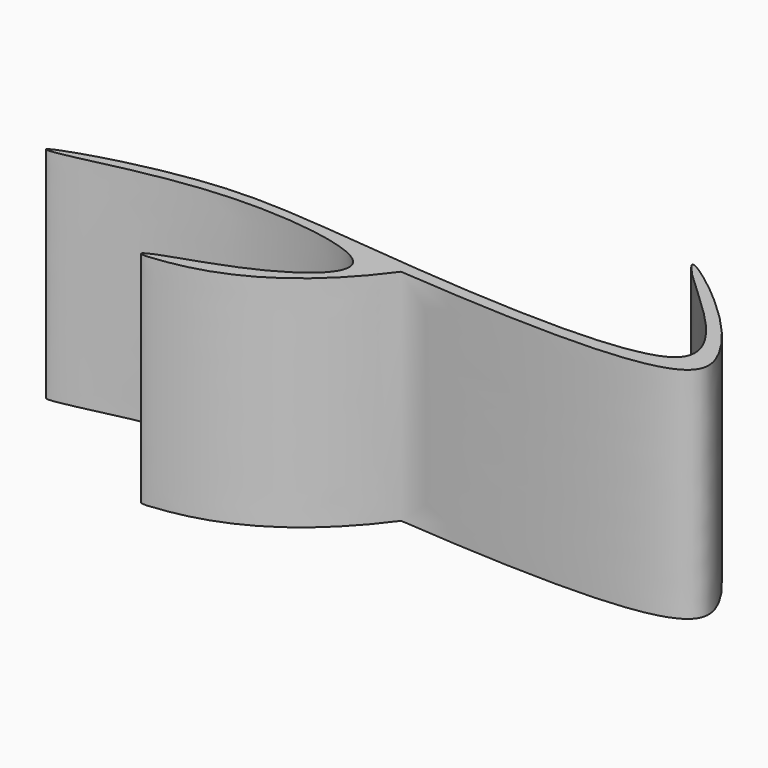
from build123d import *

# Parameters (mm, degrees)
EXTRUDE_DEPTH = 62


with BuildPart() as part:
    # Sketch → Extrude (new body)
    with BuildSketch(Plane.XY):
        with BuildLine():
            add(Edge.make_bspline(
                [(0, 0), (-17.017311, -23.454815), (-52.8036, -31.2964), (-51.156, -27.8181), (-20.7663, -19.2138), (0.174803, 0), (-53.1697, 7.5145), (-99.066071, -5.100662), (-100.285789, -2.476407), (-53.902, 10.4436), (-5.75449, 2.75467), (99.332855, -2.631783), (44.773, 43.0302), (47.336, 45.9593), (88.985268, 10.370309), (79.801414, -6.427223), (0, 0)],
                knots=[0, 0, 0, 0, 0.071429, 0.142857, 0.214286, 0.285714, 0.357143, 0.428571, 0.5, 0.571429, 0.642857, 0.714286, 0.785714, 0.857143, 0.928571, 1, 1, 1, 1], degree=3))
        make_face()
    extrude(amount=EXTRUDE_DEPTH)


solid = part.part
